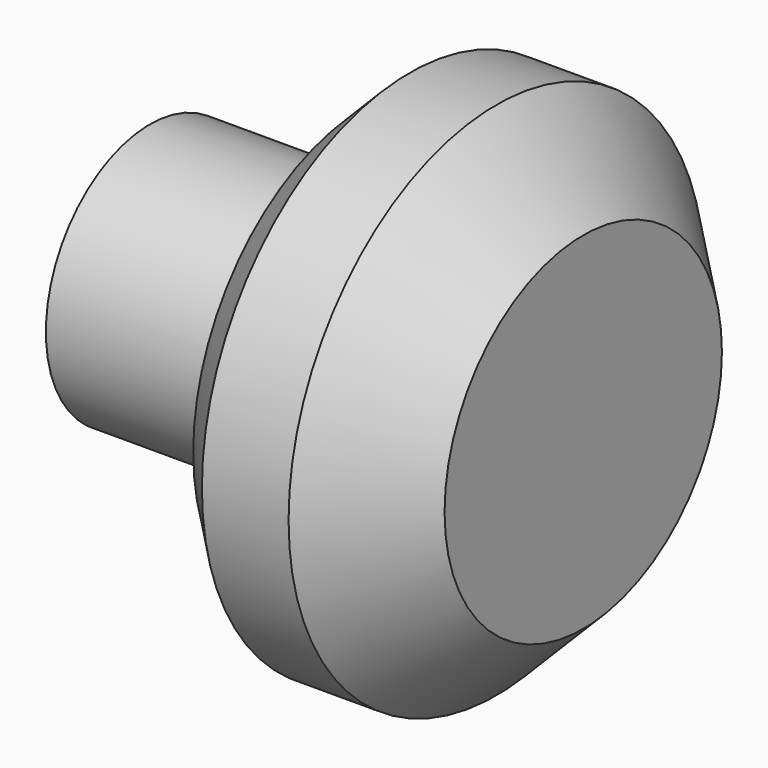
from build123d import *

# Parameters (mm, degrees)
F0_R     = 15
F4_DEPTH = 25
F1_R     = 30
F5_DEPTH = 25
F2_SIZE  = 10
F3_SIZE  = 5


with BuildPart() as f4:
    # F0 (on Right) → F4 (new body)
    with BuildSketch(Plane.YZ):
        Circle(F0_R)
    extrude(amount=F4_DEPTH)

    # F1 (on face) → F5 (join)
    with BuildSketch(Plane.YZ.offset(25)):
        Circle(F1_R)
    extrude(amount=F5_DEPTH)

    # F2
    f2_edges = [f4.edges().sort_by_distance(p)[0] for p in [
        (50, -30, 0),
    ]]
    chamfer(f2_edges, length=F2_SIZE)

    # F3
    f3_edges = [f4.edges().sort_by_distance(p)[0] for p in [
        (25, -30, 0),
    ]]
    chamfer(f3_edges, length=F3_SIZE)


solid = f4.part
